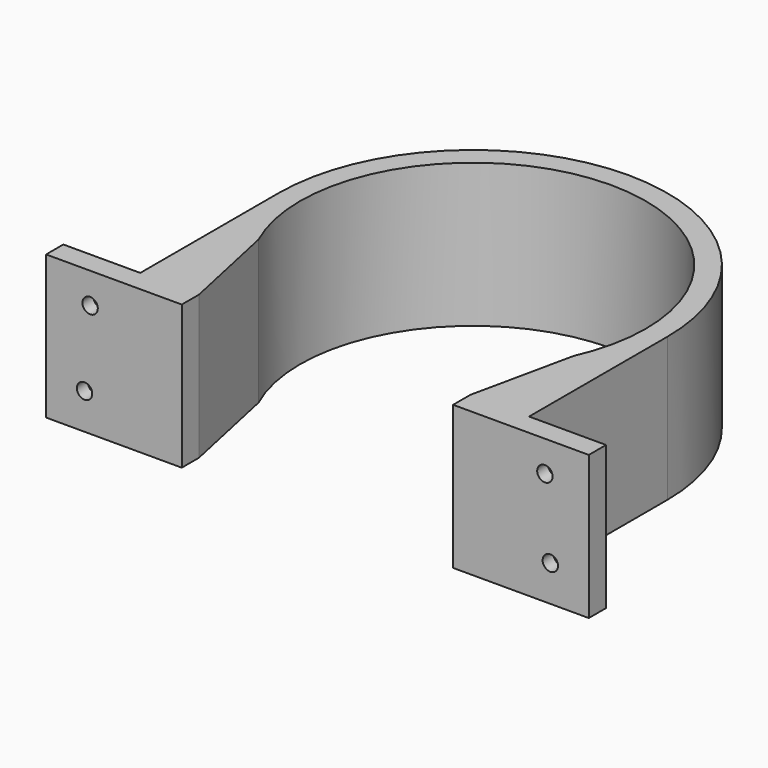
from build123d import *

# Parameters (mm, degrees)
PAD_DEPTH        = 28
HOLE_D           = 3
HOLE_DEPTH       = 25
HOLE_CSINK_D     = 6.1
HOLE_CSINK_ANGLE = 90


with BuildPart() as part:
    # Sketch → Pad (new body)
    with BuildSketch(Plane.XY):
        with BuildLine():
            ThreePointArc((30.717917, -13.86), (0, 33.7), (-30.717917, -13.86))
            Line((-30.717917, -13.86), (-26.45, -33.7))
            Line((-26.45, -33.7), (-26.45, -37.9))
            Line((-52.9, -37.9), (-26.45, -37.9))
            Line((-52.9, -33.7), (-52.9, -37.9))
            Line((-37.9, -33.7), (-52.9, -33.7))
            Line((-37.9, 0), (-37.9, -33.7))
            ThreePointArc((37.9, 0), (0, 37.9), (-37.9, 0))
            Line((37.9, 0), (37.9, -33.7))
            Line((52.9, -33.7), (37.9, -33.7))
            Line((52.9, -37.9), (52.9, -33.7))
            Line((26.45, -37.9), (52.9, -37.9))
            Line((26.45, -33.7), (26.45, -37.9))
            Line((30.717917, -13.86), (26.45, -33.7))
        make_face()
    extrude(amount=PAD_DEPTH)

    # Hole
    with Locations(Plane(origin=(0, -33.7, 0), x_dir=(-1, 0, 0), z_dir=(0, 1, 0))):
        with Locations((45.4, 7), (-45.4, 7), (-44.336327, 21.992761), (44.318888, 22.009038)):
            CounterSinkHole(HOLE_D / 2, HOLE_CSINK_D / 2, depth=HOLE_DEPTH, counter_sink_angle=HOLE_CSINK_ANGLE)


solid = part.part
